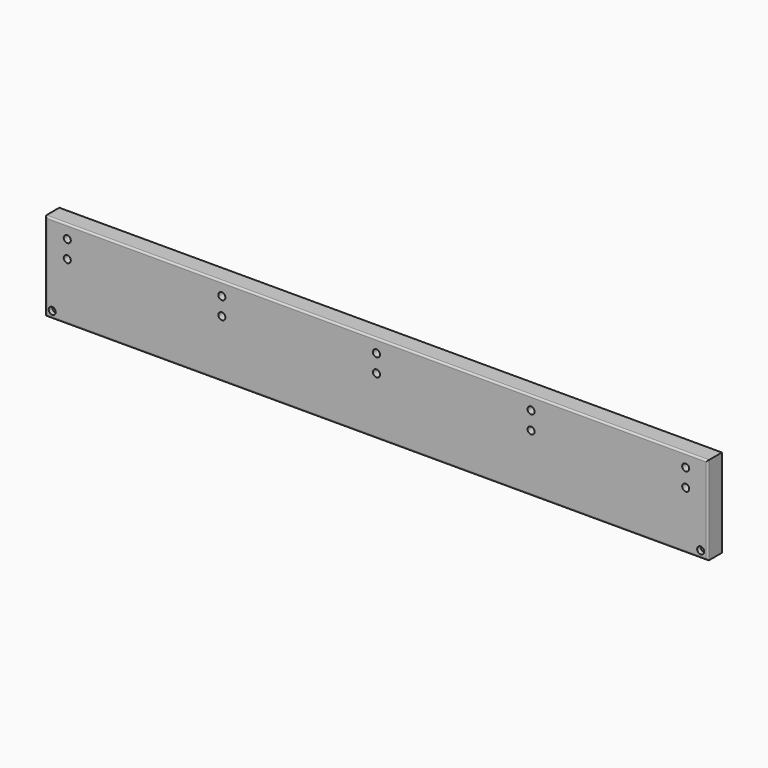
from build123d import *

# Parameters (mm, degrees)
F0_W     = 750
F0_H     = 100
F1_DEPTH = 20
F2_R     = 2
F3_R     = 4
F4_DEPTH = 12
F5_R     = 4
F6_DEPTH = 5
F7_W     = 50.2
F7_H     = 50.2
F8_DEPTH = 0.3


with BuildPart() as f1:
    # F0 (on Front) → F1 (new body)
    with BuildSketch(Plane.XZ):
        Rectangle(F0_W, F0_H)
    extrude(amount=F1_DEPTH)

    # F2
    f2_edges = [f1.edges().sort_by_distance(p)[0] for p in [
        (0, -20, -50),
        (375, -20, 0),
        (0, -20, 50),
        (-375, -20, 0),
    ]]
    fillet(f2_edges, radius=F2_R)

    # F3 (on face) → F4 (cut)
    with BuildSketch(Plane.XZ.offset(20)):
        with Locations((-350, 35)):
            Circle(F3_R)
        with Locations((-350, 15)):
            Circle(F3_R)
        with Locations((-175, 15)):
            Circle(F3_R)
        with Locations((-175, 35)):
            Circle(F3_R)
        with Locations((0, 35)):
            Circle(F3_R)
        with Locations((0, 15)):
            Circle(F3_R)
        with Locations((175, 35)):
            Circle(F3_R)
        with Locations((175, 15)):
            Circle(F3_R)
        with Locations((350, 15)):
            Circle(F3_R)
        with Locations((350, 35)):
            Circle(F3_R)
    extrude(amount=-F4_DEPTH, mode=Mode.SUBTRACT)

    # F5 (on face) → F6 (cut)
    with BuildSketch(Plane.XZ.offset(20)):
        with Locations((-367, -42)):
            Circle(F5_R)
        with Locations((367, -42)):
            Circle(F5_R)
    extrude(amount=-F6_DEPTH, mode=Mode.SUBTRACT)

    # F7 (on face) → F8 (cut)
    with BuildSketch(Plane(origin=(0, 0, 0), x_dir=(-1, 0, 0), z_dir=(0, 1, 0))):
        with Locations((-340, 0)):
            Rectangle(F7_W, F7_H)
        with Locations((340, 0)):
            Rectangle(F7_W, F7_H)
    extrude(amount=-F8_DEPTH, mode=Mode.SUBTRACT)


solid = f1.part
